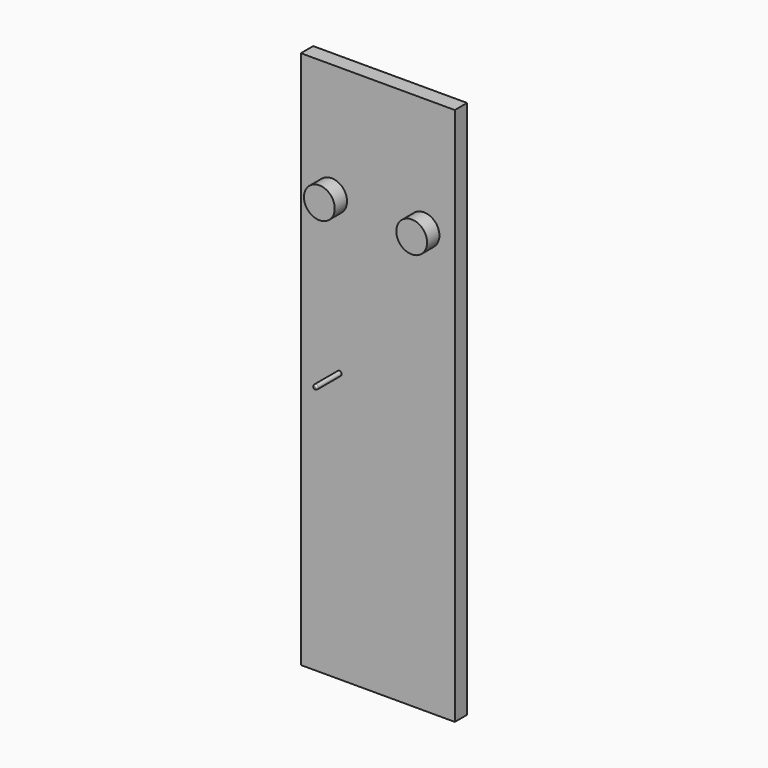
from build123d import *

# Parameters (mm, degrees)
F0_W     = 100
F0_H     = 350
F0_R     = 10
F1_DEPTH = 10
F2_DEPTH = 20
F3_R     = 1.5
F4_DEPTH = 20
F5_R     = 1


with BuildPart() as f1:
    # F0 (on Front) → F1 (new body)
    with BuildSketch(Plane.XZ):
        with Locations((0, -100)):
            Rectangle(F0_W, F0_H)
        with Locations((-30, 0)):
            Circle(F0_R, mode=Mode.SUBTRACT)
        with Locations((30, 0)):
            Circle(F0_R, mode=Mode.SUBTRACT)
    extrude(amount=F1_DEPTH)

    # F0 (on Front) → F2 (join)
    with BuildSketch(Plane.XZ):
        with Locations((-30, 0)):
            Circle(F0_R)
        with Locations((30, 0)):
            Circle(F0_R)
    extrude(amount=F2_DEPTH)

    # F3 (on face) → F4 (join)
    with BuildSketch(Plane.XZ.offset(10)):
        with Locations((-25, -100)):
            Circle(F3_R)
    extrude(amount=F4_DEPTH)

    # F5
    f5_edges = [f1.edges().sort_by_distance(p)[0] for p in [
        (-26.5, -30, -100),
    ]]
    fillet(f5_edges, radius=F5_R)


solid = f1.part
